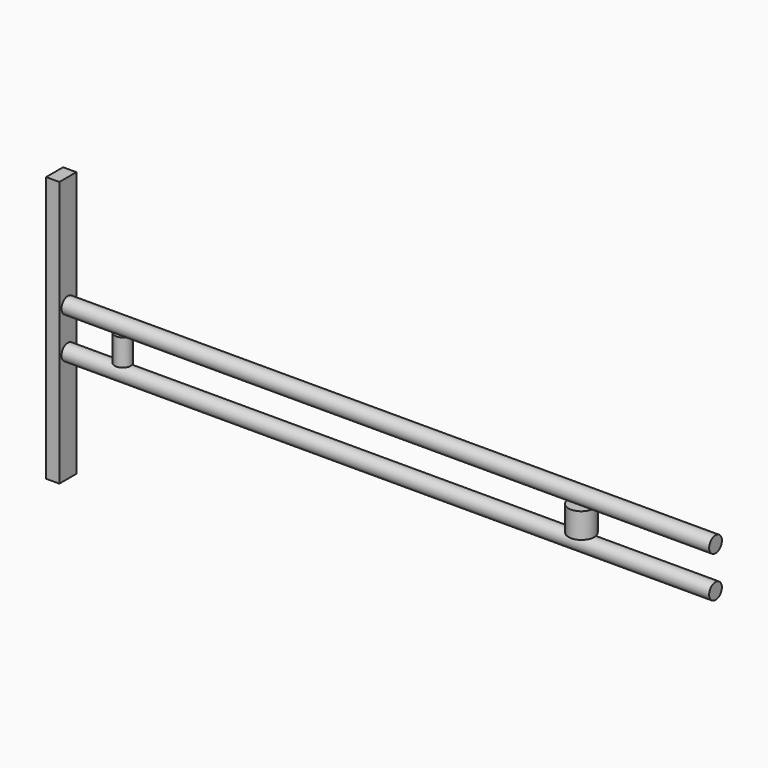
from build123d import *

# Parameters (mm, degrees)
F0_W     = 1219.2
F0_H     = 15
F0_W_2   = 15
F0_H_2   = 47.4986740947
F0_H_3   = 2.5013259053
F0_W_3   = 24.1035435881
F0_H_4   = 22.4986740947
F0_H_5   = 25
F5_R     = 0.0241421356
F6_W     = 40
F6_H     = 500
F7_DEPTH = 25


with BuildPart() as f1:
    # F0 (on Front) → F1 (revolve)
    with BuildSketch(Plane.XZ):
        with Locations((154.6719521284, 77.4986740947)):
            Rectangle(F0_W, F0_H)
    revolve(axis=Axis((154.6719521284, 0, 69.9986740947), (1, 0, 0)))



with BuildPart() as f2:
    # F0 (on Front) → F2 (revolve)
    with BuildSketch(Plane.XZ):
        Polygon((-454.9280478716, -7.5), (764.2, -7.5), (764.2, 7.5), (535.8324178628, 7.5), (511.7288742747, 7.5), (487.6253306866, 7.5), (-336.5853738785, 7.5), (-351.5853738785, 7.5), (-366.5853738785, 7.5), (-454.9280478716, 7.5), align=None)
    revolve(axis=Axis((154.6359760642, 0, -7.5), (1, 0, 0)))


with BuildPart() as f3:
    # F0 (on Front) → F3 (revolve)
    with BuildSketch(Plane.XZ):
        with Locations((-359.0853738785, 31.2493370473)):
            Rectangle(F0_W_2, F0_H_2)
        with Locations((-359.0853738785, 56.2493370473)):
            Rectangle(F0_W_2, F0_H_3)
    revolve(axis=Axis((-351.5853738785, 0, 32.5), (0, 0, 1)))

    # F5
    f5_edges = [f3.edges().sort_by_distance(p)[0] for p in [
        (-336.585374, 0, 57.5),
    ]]
    fillet(f5_edges, radius=F5_R)


with BuildPart() as f1_1:
    add(f1.part)

    add(f2.part)  # F4 merges F2
    # F0 (on Front) → F4 (revolve)
    with BuildSketch(Plane.XZ):
        with Locations((499.6771024806, 43.7493370473)):
            Rectangle(F0_W_3, F0_H_4)
        with Locations((499.6771024806, 20)):
            Rectangle(F0_W_3, F0_H_5)
    revolve(axis=Axis((511.7288742747, 0, 32.5), (0, 0, -1)))


with BuildPart() as f7:
    # F6 (on face) → F7 (new body)
    with BuildSketch(Plane(origin=(-454.9280478716, 0, 0), x_dir=(0, -1, 0), z_dir=(-1, 0, 0))):
        with Locations((0, 31.9915090998)):
            Rectangle(F6_W, F6_H)
    extrude(amount=F7_DEPTH)


solid = Compound([f3.part, f1_1.part, f7.part])
